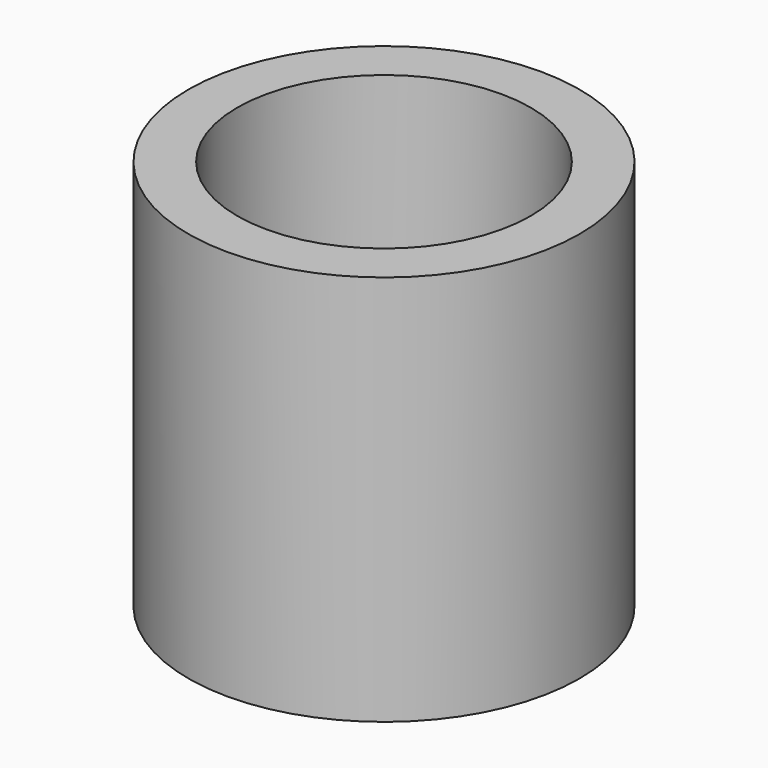
from build123d import *

# Parameters (mm, degrees)
CYLINDER005_R     = 1.5
CYLINDER005_DEPTH = 4
CYLINDER004_R     = 2
CYLINDER004_DEPTH = 4


with BuildPart() as cylinderouter002:
    # Cylinder005 → Cylinder005 (new body)
    with BuildSketch(Plane(origin=(8, -26, -23), x_dir=(1, 0, 0), z_dir=(0, 0, 1))):
        Circle(CYLINDER005_R)
    extrude(amount=CYLINDER005_DEPTH)


with BuildPart() as obj1:
    # Cylinder004 → Cylinder004 (new body)
    with BuildSketch(Plane(origin=(8, -26, -23), x_dir=(1, 0, 0), z_dir=(0, 0, 1))):
        Circle(CYLINDER004_R)
    extrude(amount=CYLINDER004_DEPTH)

    # Cut003: cut CylinderOuter002
    add(cylinderouter002.part, mode=Mode.SUBTRACT)


with BuildPart() as obj1_1:
    # Cut003 placement: moved
    add(obj1.part.moved(Location((-8, 35, 0))))


solid = obj1_1.part
